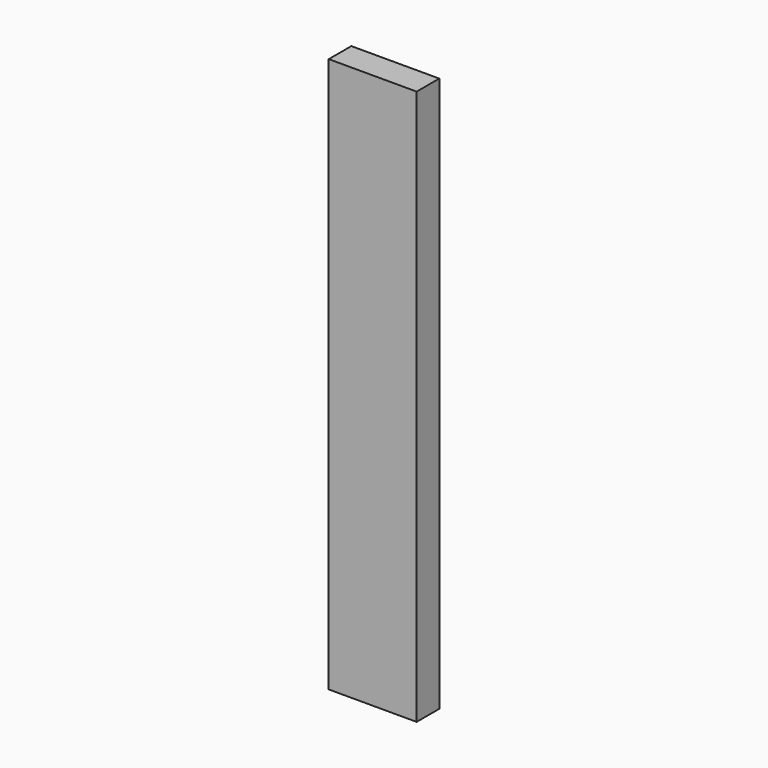
from build123d import *

# Parameters (mm, degrees)
F0_W      = 22.4
F0_H      = 116.4
F1_DEPTH  = 7.2
F1_FACE_W = 22.4
F1_FACE_H = 7.2
F2_DEPTH  = 25


with BuildPart() as f1:
    # F0 (on Front) → F1 (new body)
    with BuildSketch(Plane.XZ):
        Rectangle(F0_W, F0_H)
        Rectangle(F0_W, F0_H)
    extrude(amount=F1_DEPTH)

    # F1_face (on face) → F2 (join)
    with BuildSketch(Plane(origin=(0, -3.6, 58.2), x_dir=(1, 0, 0), z_dir=(0, 0, 1))):
        Rectangle(F1_FACE_W, F1_FACE_H)
    extrude(amount=F2_DEPTH)


solid = f1.part
